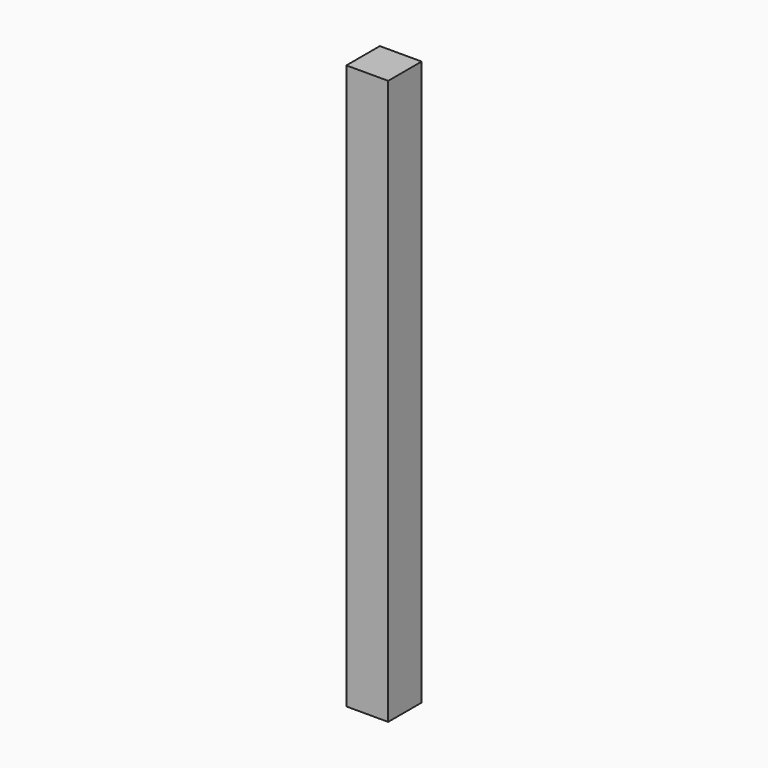
from build123d import *

# Parameters (mm, degrees)
SKETCH_W  = 203.2
SKETCH_H  = 203.2
PAD_DEPTH = 2743.2


with BuildPart() as part:
    # Sketch → Pad (new body)
    with BuildSketch(Plane.XY):
        with Locations((101.6, 101.6)):
            Rectangle(SKETCH_W, SKETCH_H)
    extrude(amount=PAD_DEPTH)


solid = part.part
